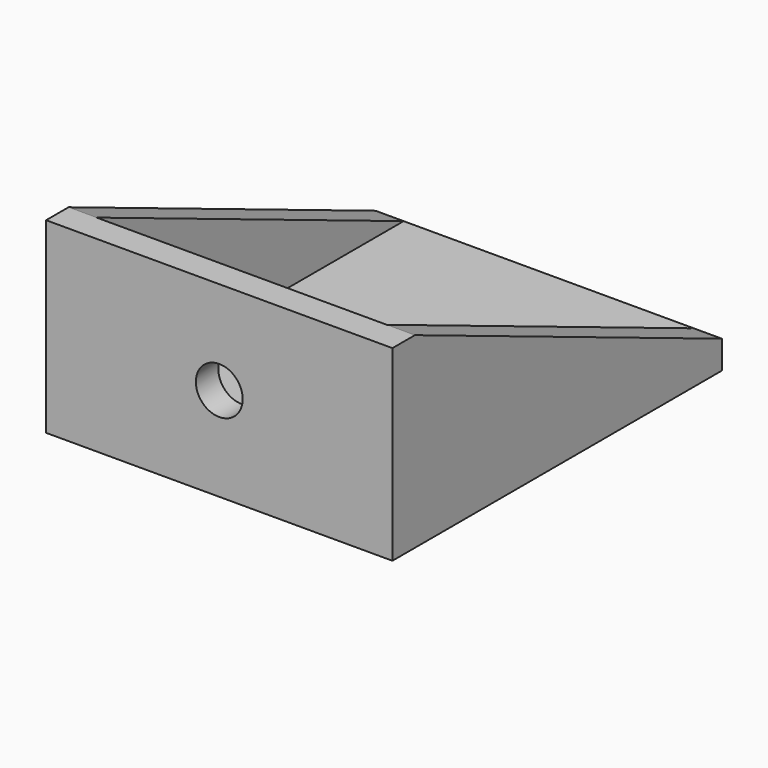
from build123d import *

# Parameters (mm, degrees)
F0_W     = 37
F0_H     = 44
F1_DEPTH = 3
F2_W     = 37
F2_H     = 17
F3_DEPTH = 3
F5_DEPTH = 3
F7_DEPTH = 3
F9_D     = 5


with BuildPart() as f1:
    # F0 (on Top) → F1 (new body)
    with BuildSketch(Plane.XY):
        with Locations((-3.996914, 0.254389)):
            Rectangle(F0_W, F0_H)
    extrude(amount=F1_DEPTH)

    # F2 (on face) → F3 (join)
    with BuildSketch(Plane.XZ.offset(21.745611)):
        with Locations((-3.996914, 11.5)):
            Rectangle(F2_W, F2_H)
    extrude(amount=-F3_DEPTH)

    # F4 (on face) → F5 (join)
    with BuildSketch(Plane.YZ.offset(14.503086)):
        Polygon((22.254389, 3), (-18.745611, 20), (-18.745611, 3), align=None)
    extrude(amount=-F5_DEPTH)

    # F6 (on face) → F7 (join)
    with BuildSketch(Plane(origin=(-22.496914, 0, 0), x_dir=(0, -1, 0), z_dir=(-1, 0, 0))):
        Polygon((18.745611, 3), (18.745611, 20), (-22.254389, 3), align=None)
    extrude(amount=-F7_DEPTH)

    # F9 (through all)
    with Locations(Plane.XZ.offset(21.745611)):
        with Locations((-3.996914, 10)):
            Hole(F9_D / 2)


solid = f1.part
